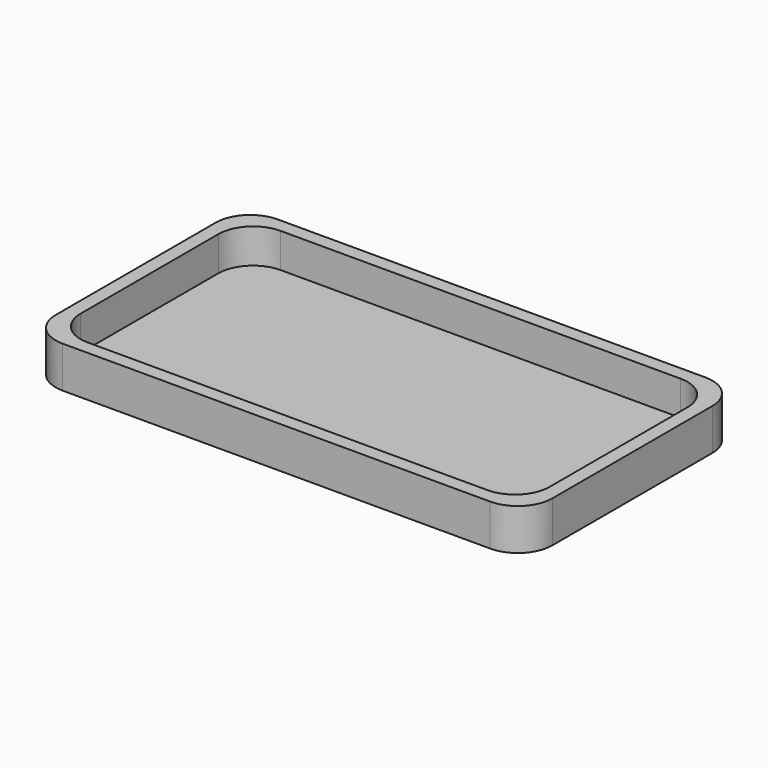
from build123d import *

# Parameters (mm, degrees)
F1_DEPTH = 2
F2_DEPTH = 12


with BuildPart() as f1:
    # F0 (on Top) → F1 (new body)
    with BuildSketch(Plane.XY):
        with BuildLine():
            ThreePointArc((22.608614, 24.601607), (19.679682, 31.672675), (12.608614, 34.601607))
            Line((12.608614, 34.601607), (-103.391386, 34.601607))
            ThreePointArc((-103.391386, 34.601607), (-110.462453, 31.672675), (-113.391386, 24.601607))
            Line((-113.391386, 24.601607), (-113.391386, -25.398393))
            ThreePointArc((-113.391386, -25.398393), (-110.462453, -32.469461), (-103.391386, -35.398393))
            Line((-103.391386, -35.398393), (12.608614, -35.398393))
            ThreePointArc((12.608614, -35.398393), (19.679682, -32.469461), (22.608614, -25.398393))
            Line((22.608614, -25.398393), (22.608614, 24.601607))
        make_face()
    extrude(amount=F1_DEPTH)

    # F0 (on Top) → F2 (join)
    with BuildSketch(Plane.XY):
        with BuildLine():
            ThreePointArc((26.608614, 28.601607), (23.679682, 35.672675), (16.608614, 38.601607))
            Line((16.608614, 38.601607), (-107.391386, 38.601607))
            ThreePointArc((-107.391386, 38.601607), (-114.462453, 35.672675), (-117.391386, 28.601607))
            Line((-117.391386, 28.601607), (-117.391386, -29.398393))
            ThreePointArc((-117.391386, -29.398393), (-114.462453, -36.469461), (-107.391386, -39.398393))
            Line((-107.391386, -39.398393), (16.608614, -39.398393))
            ThreePointArc((16.608614, -39.398393), (23.679682, -36.469461), (26.608614, -29.398393))
            Line((26.608614, -29.398393), (26.608614, 28.601607))
        make_face()
        with BuildLine():
            Line((-103.391386, 34.601607), (12.608614, 34.601607))
            ThreePointArc((12.608614, 34.601607), (19.679682, 31.672675), (22.608614, 24.601607))
            Line((22.608614, 24.601607), (22.608614, -25.398393))
            ThreePointArc((22.608614, -25.398393), (19.679682, -32.469461), (12.608614, -35.398393))
            Line((12.608614, -35.398393), (-103.391386, -35.398393))
            ThreePointArc((-103.391386, -35.398393), (-110.462453, -32.469461), (-113.391386, -25.398393))
            Line((-113.391386, -25.398393), (-113.391386, 24.601607))
            ThreePointArc((-113.391386, 24.601607), (-110.462453, 31.672675), (-103.391386, 34.601607))
        make_face(mode=Mode.SUBTRACT)
    extrude(amount=F2_DEPTH)


solid = f1.part
